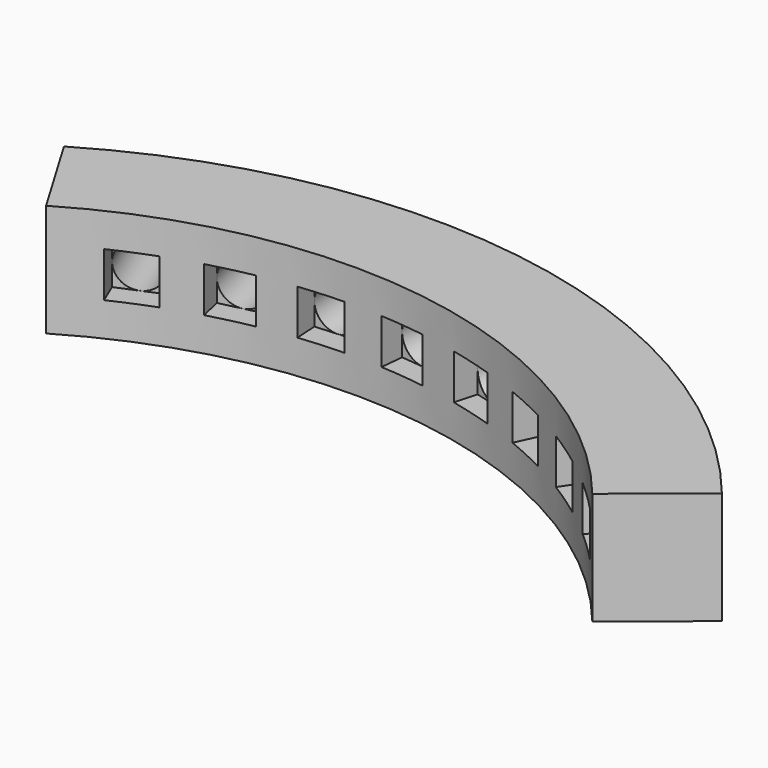
from build123d import *

# Parameters (mm, degrees)
BOX_W                       = 2
BOX_H                       = 2
BOX_DEPTH                   = 2
CYLINDER_R                  = 1
CYLINDER_DEPTH              = 7
ARRAY_COUNT                 = 8
ARRAY_ANGLE                 = -66.734026
ARRAY_PLACEMENT_ANGLE       = 22.8
TUBE001_R                   = 26.5
TUBE001_R_2                 = 22
TUBE001_DEPTH               = 5
CYLINDER003_W               = 27
CYLINDER003_H               = 10
CYLINDER003_ANGLE           = 81.734026
CYLINDER003_PLACEMENT_ANGLE = 43
COMMON001_PLACEMENT_ANGLE   = 4


with BuildPart() as cube:
    # Box → Box (new body)
    with BuildSketch(Plane(origin=(-1, 21, 0), x_dir=(1, 0, 0), z_dir=(0, 0, 1))):
        with Locations((1, 1)):
            Rectangle(BOX_W, BOX_H)
    extrude(amount=BOX_DEPTH)


with BuildPart() as bodyside_contacts:
    # Cylinder → Cylinder (new body)
    with BuildSketch(Plane(origin=(0, 29, 1), x_dir=(1, 0, 0), z_dir=(0, -1, 0))):
        Circle(CYLINDER_R)
    extrude(amount=CYLINDER_DEPTH)

    # Fusion: union Cube
    add(cube.part)

    # Array: BodySide_Contacts ×8 about axis
    array_axis = Axis((0, 0, 0), (0, 0, 1))


with BuildPart() as bodyside_contacts_1:
    add(bodyside_contacts.part)
    for i in range(1, ARRAY_COUNT):
        add(bodyside_contacts.part.rotate(array_axis, i * ARRAY_ANGLE / (ARRAY_COUNT - 1)))


with BuildPart() as bodyside_contacts_2:
    # Array placement: moved
    add(bodyside_contacts_1.part.rotate(Axis((0, 0, 0), (0, 0, 1)), ARRAY_PLACEMENT_ANGLE))


with BuildPart() as tube001:
    # Tube001 → Tube001 (new body)
    with BuildSketch(Plane.XY.offset(-1.5)):
        Circle(TUBE001_R)
        Circle(TUBE001_R_2, mode=Mode.SUBTRACT)
    extrude(amount=TUBE001_DEPTH)


with BuildPart() as cut001:
    # Cylinder003 → Cylinder003 (revolve)
    with BuildSketch(Plane.XZ):
        with Locations((13.5, 5)):
            Rectangle(CYLINDER003_W, CYLINDER003_H)
    revolve(axis=Axis((0, 0, 0), (0, 0, 1)), revolution_arc=CYLINDER003_ANGLE)


with BuildPart() as cut001_1:
    # Cylinder003 placement: moved
    add(cut001.part.moved(Location((0, 0, -3))).rotate(Axis((0, 0, -3), (0, 0, 1)), CYLINDER003_PLACEMENT_ANGLE))

    # Common001: intersect Tube001
    add(tube001.part, mode=Mode.INTERSECT)


with BuildPart() as cut001_2:
    # Common001 placement: moved
    add(cut001_1.part.rotate(Axis((0, 0, 0), (0, 0, -1)), COMMON001_PLACEMENT_ANGLE))

    # Cut001: cut BodySide_Contacts
    add(bodyside_contacts_2.part, mode=Mode.SUBTRACT)


solid = cut001_2.part
